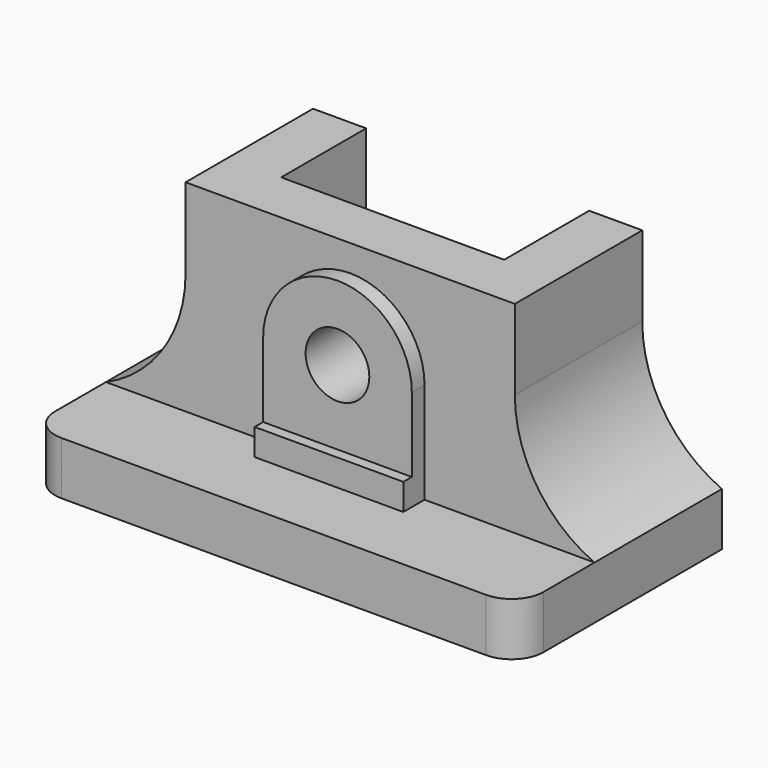
from build123d import *

# Parameters (mm, degrees)
F2_DEPTH = 762
F3_DEPTH = 1219.2
F1_R     = 152.4
F4_DEPTH = 838.2
F5_DEPTH = 889
F6_W     = 1066.8
F6_H     = 508
F7_DEPTH = 2270.76
F8_R     = 152.4


with BuildPart() as f2:
    # F1 (on Front) → F2 (new body)
    with BuildSketch(Plane.XZ):
        with BuildLine():
            Line((355.6, 254), (1168.4, 254))
            ThreePointArc((1168.4, 254), (891.1208831509, 488.1832892436), (787.4, 835.9871132594))
            Line((787.4, 835.9871132594), (787.4, 1219.2))
            Line((787.4, 1219.2), (0, 1219.2))
            Line((0, 1219.2), (-787.4, 1219.2))
            Line((-787.4, 1219.2), (-787.4, 835.9871132594))
            ThreePointArc((-787.4, 835.9871132594), (-891.1208831509, 488.1832892436), (-1168.4, 254))
            Line((-1168.4, 254), (-355.6, 254))
            Line((-355.6, 254), (-355.6, 381))
            Line((-355.6, 381), (-355.6, 736.6))
            ThreePointArc((-355.6, 736.6), (0, 1092.2), (355.6, 736.6))
            Line((355.6, 736.6), (355.6, 381))
            Line((355.6, 381), (355.6, 254))
        make_face()
    extrude(amount=F2_DEPTH)

    # F1 (on Front) → F3 (join)
    with BuildSketch(Plane.XZ):
        Polygon((-1168.4, 0), (0, 0), (1168.4, 0), (1168.4, 254), (355.6, 254), (0, 254), (-355.6, 254), (-1168.4, 254), align=None)
    extrude(amount=F3_DEPTH)

    # F1 (on Front) → F4 (join)
    with BuildSketch(Plane.XZ):
        with BuildLine():
            ThreePointArc((1.7647e-06, 381), (251.4471720139, 485.152829234), (355.6, 736.6))
            ThreePointArc((355.6, 736.6), (0, 1092.2), (-355.6, 736.6))
            ThreePointArc((-355.6, 736.6), (-251.447170766, 485.1528279861), (1.7647e-06, 381))
        make_face()
        with Locations((0, 736.6)):
            Circle(F1_R, mode=Mode.SUBTRACT)
        with BuildLine():
            Line((-355.6, 736.6), (-355.6, 381))
            Line((-355.6, 381), (1.7647e-06, 381))
            ThreePointArc((1.7647e-06, 381), (-251.447170766, 485.1528279861), (-355.6, 736.6))
        make_face()
        with BuildLine():
            Line((1.7647e-06, 381), (355.6, 381))
            Line((355.6, 381), (355.6, 736.6))
            ThreePointArc((355.6, 736.6), (251.4471720139, 485.152829234), (1.7647e-06, 381))
        make_face()
    extrude(amount=F4_DEPTH)

    # F1 (on Front) → F5 (join)
    with BuildSketch(Plane.XZ):
        Polygon((0, 254), (355.6, 254), (355.6, 381), (1.7647e-06, 381), (-355.6, 381), (-355.6, 254), align=None)
    extrude(amount=F5_DEPTH)

    # F6 (on face) → F7 (cut)
    with BuildSketch(Plane.XY.offset(1219.2)):
        with Locations((0, -254)):
            Rectangle(F6_W, F6_H)
    extrude(amount=-F7_DEPTH, mode=Mode.SUBTRACT)

    # F8
    f8_edges = [f2.edges().sort_by_distance(p)[0] for p in [
        (1168.4, -1219.2, 127),
        (-1168.4, -1219.2, 127),
    ]]
    fillet(f8_edges, radius=F8_R)


solid = f2.part
